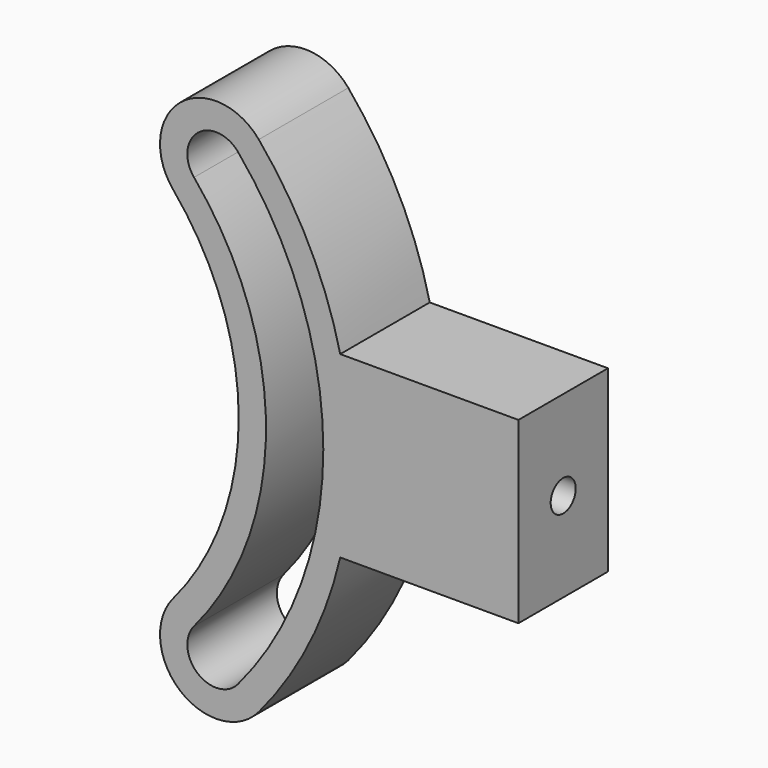
from build123d import *

# Parameters (mm, degrees)
F0_W     = 10.16
F0_H     = 10.16
F1_DEPTH = 6.35
F2_R     = 0.889
F3_DEPTH = 25.4
F5_DEPTH = 6.35


with BuildPart() as f1:
    # F0 (on Front) → F1 (new body)
    with BuildSketch(Plane.XZ):
        Rectangle(F0_W, F0_H)
    extrude(amount=F1_DEPTH)

    # F2 (on face) → F3 (cut)
    with BuildSketch(Plane.YZ.offset(5.08)):
        with Locations((-3.175, 0)):
            Circle(F2_R)
    extrude(amount=-F3_DEPTH, mode=Mode.SUBTRACT)

    # F4 (on Front) → F5 (join)
    with BuildSketch(Plane.XZ):
        with BuildLine():
            ThreePointArc((-14.516378, -10.212987), (-14.12825, -14.686308), (-9.654929, -14.298181))
            ThreePointArc((-9.654929, -14.298181), (-4.445, 0), (-9.654929, 14.298181))
            ThreePointArc((-9.654929, 14.298181), (-14.12825, 14.686308), (-14.516378, 10.212987))
            ThreePointArc((-14.516378, 10.212987), (-10.795, 0), (-14.516378, -10.212987))
        make_face()
        with BuildLine():
            ThreePointArc((-10.841122, 13.301393), (-5.9944, 0), (-10.841122, -13.301393))
            ThreePointArc((-10.841122, -13.301393), (-13.131463, -13.500114), (-13.330184, -11.209774))
            ThreePointArc((-13.330184, -11.209774), (-9.2456, 0), (-13.330184, 11.209774))
            ThreePointArc((-13.330184, 11.209774), (-13.131463, 13.500114), (-10.841122, 13.301393))
        make_face(mode=Mode.SUBTRACT)
    extrude(amount=F5_DEPTH)


solid = f1.part
